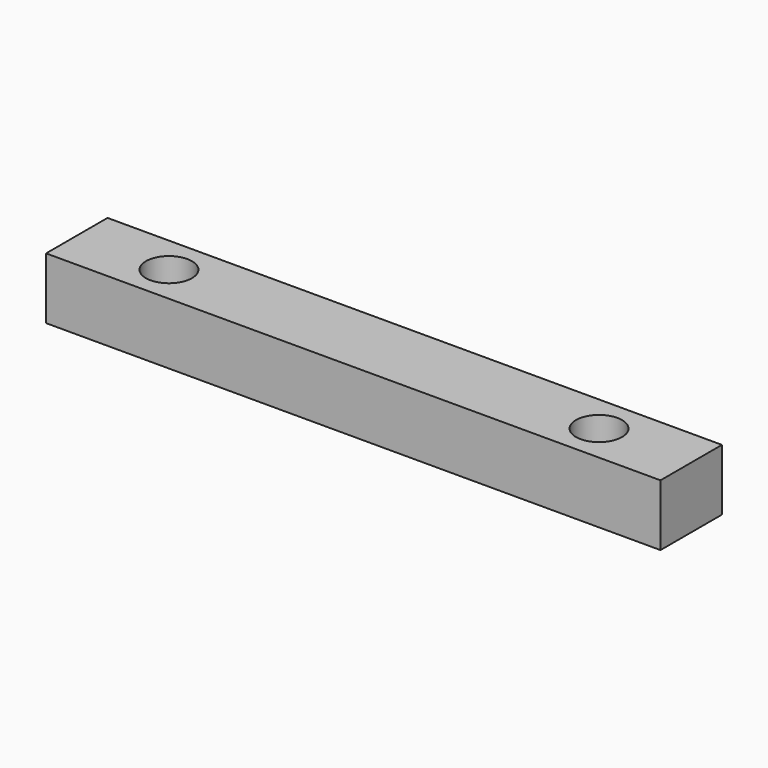
from build123d import *

# Parameters (mm, degrees)
SKETCH_W  = 40
SKETCH_H  = 5
SKETCH_R  = 1.5
PAD_DEPTH = 4


with BuildPart() as part:
    # Sketch → Pad (new body)
    with BuildSketch(Plane.XY):
        Rectangle(SKETCH_W, SKETCH_H)
        with Locations((-14, 0)):
            Circle(SKETCH_R, mode=Mode.SUBTRACT)
        with Locations((14, 0)):
            Circle(SKETCH_R, mode=Mode.SUBTRACT)
    extrude(amount=PAD_DEPTH)


solid = part.part
